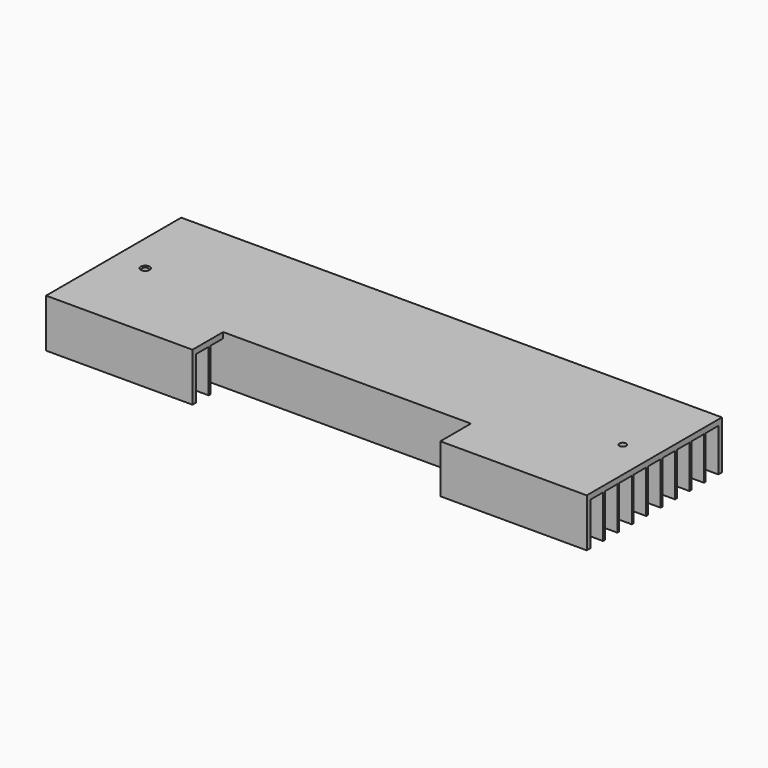
from build123d import *

# Parameters (mm, degrees)
F0_W     = 1
F0_H     = 19
F0_W_2   = 2
F1_DEPTH = 120
F2_R     = 1.5
F3_DEPTH = 21.501
F4_SIZE  = 0.5
F5_W     = 110
F5_H     = 21.5
F6_DEPTH = 17


with BuildPart() as f1:
    # F0 (on Right) → F1 (new body, symmetric)
    with BuildSketch(Plane.YZ):
        with Locations((-4, 0)):
            Rectangle(F0_W, F0_H)
        with Locations((4, 0)):
            Rectangle(F0_W, F0_H)
        with Locations((-12, 0)):
            Rectangle(F0_W, F0_H)
        with Locations((-20, 0)):
            Rectangle(F0_W, F0_H)
        with Locations((12, 0)):
            Rectangle(F0_W, F0_H)
        with Locations((20, 0)):
            Rectangle(F0_W, F0_H)
        with Locations((28, 0)):
            Rectangle(F0_W, F0_H)
        with Locations((-28, 0)):
            Rectangle(F0_W, F0_H)
        with Locations((36.5, 0)):
            Rectangle(F0_W_2, F0_H)
        with Locations((-36.5, 0)):
            Rectangle(F0_W_2, F0_H)
        Polygon((-11.5, 9.5), (-4.5, 9.5), (-3.5, 9.5), (3.5, 9.5), (4.5, 9.5), (11.5, 9.5), (12.5, 9.5), (19.5, 9.5), (20.5, 9.5), (27.5, 9.5), (28.5, 9.5), (35.5, 9.5), (37.5, 9.5), (37.5, 12), (-37.5, 12), (-37.5, 9.5), (-35.5, 9.5), (-28.5, 9.5), (-27.5, 9.5), (-20.5, 9.5), (-19.5, 9.5), (-12.5, 9.5), align=None)
    extrude(amount=F1_DEPTH, both=True)

    # F2 (on face) → F3 (cut, through all)
    with BuildSketch(Plane.XY.offset(12)):
        with Locations((-106, 0)):
            Circle(F2_R)
        with Locations((106, 0)):
            Circle(F2_R)
    extrude(amount=-F3_DEPTH, mode=Mode.SUBTRACT)

    # F4
    f4_edges = [f1.edges().sort_by_distance(p)[0] for p in [
        (-107.5, 0, 12),
        (-104.5, 0, 10.75),
        (-107.5, 0, 9.5),
    ]]
    chamfer(f4_edges, length=F4_SIZE)

    # F5 (on face) → F6 (cut)
    with BuildSketch(Plane.XZ.offset(37.5)):
        with Locations((0, 1.25)):
            Rectangle(F5_W, F5_H)
    extrude(amount=-F6_DEPTH, mode=Mode.SUBTRACT)


solid = f1.part
